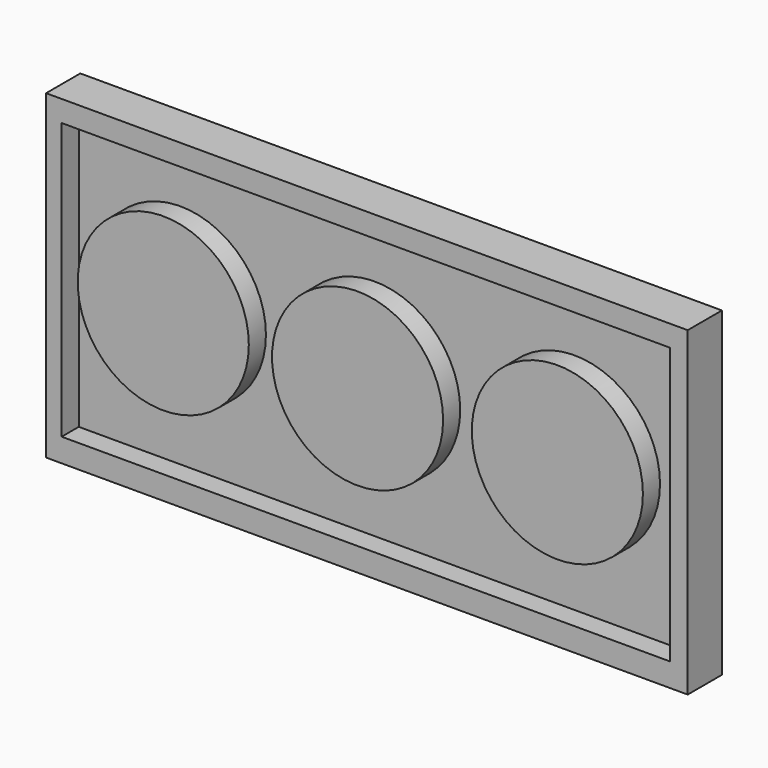
from build123d import *

# Parameters (mm, degrees)
F0_W     = 76.2
F0_H     = 38.1
F1_DEPTH = 5.08
F2_W     = 72.268962
F2_H     = 32.798988
F3_DEPTH = 2.54
F4_R     = 10.16
F5_DEPTH = 2.54


with BuildPart() as f1:
    # F0 (on Front) → F1 (new body)
    with BuildSketch(Plane.XZ):
        with Locations((38.1, -19.05)):
            Rectangle(F0_W, F0_H)
    extrude(amount=F1_DEPTH)

    # F2 (on face) → F3 (cut)
    with BuildSketch(Plane.XZ.offset(5.08)):
        with Locations((37.983545, -18.917193)):
            Rectangle(F2_W, F2_H)
    extrude(amount=-F3_DEPTH, mode=Mode.SUBTRACT)

    # F4 (on face) → F5 (join)
    with BuildSketch(Plane.XZ.offset(2.54)):
        with Locations((13.917368, -18.489809)):
            Circle(F4_R)
        with Locations((36.991507, -18.844597)):
            Circle(F4_R)
        with Locations((60.718681, -18.846158)):
            Circle(F4_R)
    extrude(amount=F5_DEPTH)


solid = f1.part
